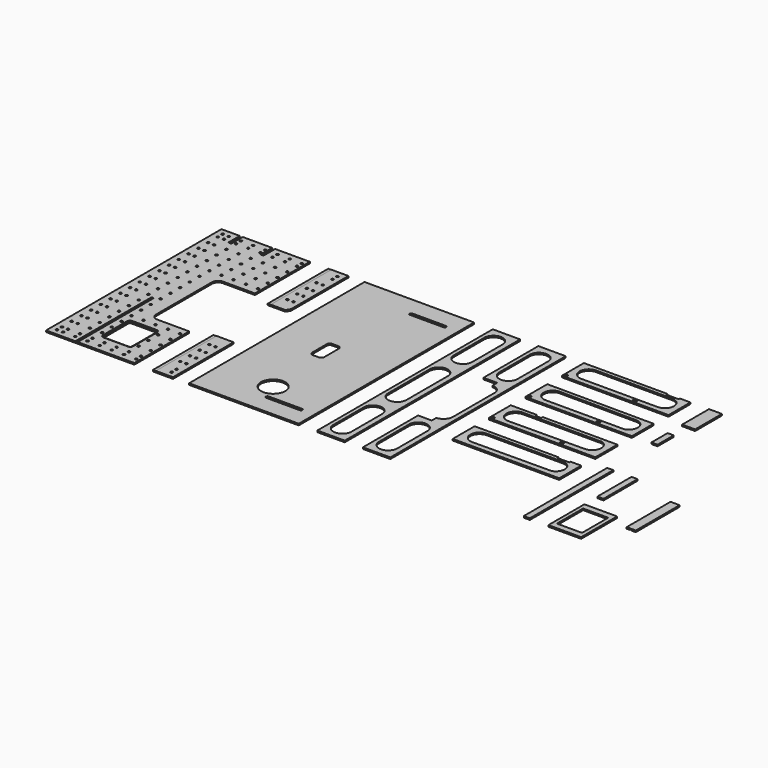
from build123d import *

# Parameters (mm, degrees)
F0_R      = 9.525
F0_W      = 914.4
F0_H      = 1828.8
F0_R_2    = 101.6
F0_W_2    = 228.6
F0_R_3    = 15.875
F0_W_3    = 168.275
F0_H_2    = 631.825
F0_W_4    = 107.95
F0_H_3    = 279.4
F0_W_5    = 50.8
F0_H_4    = 168.275
F0_H_5    = 869.95
F0_H_6    = 355.6
F0_W_6    = 273.05
F0_H_7    = 374.65
F0_W_7    = 76.2
F0_H_8    = 457.2
F1_DEPTH  = 12.7
F2_W      = 25.4
F2_H      = 120.355077
F2_W_2    = 19.05
F2_H_2    = 793.5853
F3_DEPTH  = 9.525
F5_DEPTH  = 6.35
F7_DEPTH  = 6.351
F8_W      = 25.4
F8_H      = 631.825
F9_DEPTH  = 1.5875
F10_W     = 15.875
F10_H     = 457.2
F11_DEPTH = 6.35
F12_W     = 209.55
F12_H     = 273.05
F13_DEPTH = 12.701


with BuildPart() as f1:
    # F0 (on Top) → F1 (new body)
    with BuildSketch(Plane.XY):
        with BuildLine():
            Line((824.992034, -725.172062), (824.992034, -153.672062))
            Line((824.992034, -153.672062), (88.392034, -153.672062))
            Line((88.392034, -153.672062), (88.392034, -1982.472062))
            Line((88.392034, -1982.472062), (824.992034, -1982.472062))
            Line((824.992034, -1982.472062), (824.992034, -1410.972062))
            Line((824.992034, -1410.972062), (558.292034, -1410.972062))
            ThreePointArc((558.292034, -1410.972062), (522.37101, -1396.093087), (507.492034, -1360.172062))
            Line((507.492034, -1360.172062), (507.492034, -775.972062))
            ThreePointArc((507.492034, -775.972062), (522.37101, -740.051038), (558.292034, -725.172062))
            Line((558.292034, -725.172062), (824.992034, -725.172062))
        make_face()
        with Locations((139.192034, -1931.672062)):
            Circle(F0_R, mode=Mode.SUBTRACT)
        with Locations((189.992034, -1931.672062)):
            Circle(F0_R, mode=Mode.SUBTRACT)
        with Locations((291.592034, -1931.672062)):
            Circle(F0_R, mode=Mode.SUBTRACT)
        with Locations((139.192034, -1880.872062)):
            Circle(F0_R, mode=Mode.SUBTRACT)
        with Locations((189.992034, -1880.872062)):
            Circle(F0_R, mode=Mode.SUBTRACT)
        with Locations((291.592034, -1880.872062)):
            Circle(F0_R, mode=Mode.SUBTRACT)
        with Locations((393.192034, -1931.672062)):
            Circle(F0_R, mode=Mode.SUBTRACT)
        with Locations((494.792034, -1931.672062)):
            Circle(F0_R, mode=Mode.SUBTRACT)
        with Locations((596.392034, -1931.672062)):
            Circle(F0_R, mode=Mode.SUBTRACT)
        with Locations((393.192034, -1880.872062)):
            Circle(F0_R, mode=Mode.SUBTRACT)
        with Locations((494.792034, -1880.872062)):
            Circle(F0_R, mode=Mode.SUBTRACT)
        with Locations((596.392034, -1880.872062)):
            Circle(F0_R, mode=Mode.SUBTRACT)
        with Locations((697.992034, -1931.672062)):
            Circle(F0_R, mode=Mode.SUBTRACT)
        with Locations((799.592034, -1931.672062)):
            Circle(F0_R, mode=Mode.SUBTRACT)
        with Locations((697.992034, -1880.872062)):
            Circle(F0_R, mode=Mode.SUBTRACT)
        with Locations((799.592034, -1880.872062)):
            Circle(F0_R, mode=Mode.SUBTRACT)
        with Locations((139.192034, -1779.272062)):
            Circle(F0_R, mode=Mode.SUBTRACT)
        with Locations((189.992034, -1779.272062)):
            Circle(F0_R, mode=Mode.SUBTRACT)
        with Locations((291.592034, -1779.272062)):
            Circle(F0_R, mode=Mode.SUBTRACT)
        with Locations((393.192034, -1779.272062)):
            Circle(F0_R, mode=Mode.SUBTRACT)
        with Locations((139.192034, -1677.672062)):
            Circle(F0_R, mode=Mode.SUBTRACT)
        with Locations((189.992034, -1677.672062)):
            Circle(F0_R, mode=Mode.SUBTRACT)
        with Locations((291.592034, -1677.672062)):
            Circle(F0_R, mode=Mode.SUBTRACT)
        with Locations((393.192034, -1677.672062)):
            Circle(F0_R, mode=Mode.SUBTRACT)
        with Locations((697.992034, -1779.272062)):
            Circle(F0_R, mode=Mode.SUBTRACT)
        with Locations((799.592034, -1779.272062)):
            Circle(F0_R, mode=Mode.SUBTRACT)
        with Locations((697.992034, -1677.672062)):
            Circle(F0_R, mode=Mode.SUBTRACT)
        with Locations((799.592034, -1677.672062)):
            Circle(F0_R, mode=Mode.SUBTRACT)
        with Locations((139.192034, -1576.072062)):
            Circle(F0_R, mode=Mode.SUBTRACT)
        with Locations((189.992034, -1576.072062)):
            Circle(F0_R, mode=Mode.SUBTRACT)
        with Locations((291.592034, -1576.072062)):
            Circle(F0_R, mode=Mode.SUBTRACT)
        with Locations((393.192034, -1576.072062)):
            Circle(F0_R, mode=Mode.SUBTRACT)
        with Locations((139.192034, -1474.472062)):
            Circle(F0_R, mode=Mode.SUBTRACT)
        with Locations((189.992034, -1474.472062)):
            Circle(F0_R, mode=Mode.SUBTRACT)
        with Locations((291.592034, -1474.472062)):
            Circle(F0_R, mode=Mode.SUBTRACT)
        with Locations((139.192034, -1372.872062)):
            Circle(F0_R, mode=Mode.SUBTRACT)
        with Locations((189.992034, -1372.872062)):
            Circle(F0_R, mode=Mode.SUBTRACT)
        with Locations((291.592034, -1372.872062)):
            Circle(F0_R, mode=Mode.SUBTRACT)
        with Locations((393.192034, -1474.472062)):
            Circle(F0_R, mode=Mode.SUBTRACT)
        with Locations((494.792034, -1474.472062)):
            Circle(F0_R, mode=Mode.SUBTRACT)
        with Locations((596.392034, -1474.472062)):
            Circle(F0_R, mode=Mode.SUBTRACT)
        with Locations((393.192034, -1372.872062)):
            Circle(F0_R, mode=Mode.SUBTRACT)
        with Locations((697.992034, -1576.072062)):
            Circle(F0_R, mode=Mode.SUBTRACT)
        with Locations((799.592034, -1576.072062)):
            Circle(F0_R, mode=Mode.SUBTRACT)
        with Locations((697.992034, -1474.472062)):
            Circle(F0_R, mode=Mode.SUBTRACT)
        with Locations((799.592034, -1474.472062)):
            Circle(F0_R, mode=Mode.SUBTRACT)
        with Locations((139.192034, -1271.272062)):
            Circle(F0_R, mode=Mode.SUBTRACT)
        with Locations((189.992034, -1271.272062)):
            Circle(F0_R, mode=Mode.SUBTRACT)
        with Locations((291.592034, -1271.272062)):
            Circle(F0_R, mode=Mode.SUBTRACT)
        with Locations((393.192034, -1271.272062)):
            Circle(F0_R, mode=Mode.SUBTRACT)
        with Locations((139.192034, -1169.672062)):
            Circle(F0_R, mode=Mode.SUBTRACT)
        with Locations((189.992034, -1169.672062)):
            Circle(F0_R, mode=Mode.SUBTRACT)
        with Locations((291.592034, -1169.672062)):
            Circle(F0_R, mode=Mode.SUBTRACT)
        with Locations((393.192034, -1169.672062)):
            Circle(F0_R, mode=Mode.SUBTRACT)
        with Locations((139.192034, -1068.072062)):
            Circle(F0_R, mode=Mode.SUBTRACT)
        with Locations((189.992034, -1068.072062)):
            Circle(F0_R, mode=Mode.SUBTRACT)
        with Locations((291.592034, -1068.072062)):
            Circle(F0_R, mode=Mode.SUBTRACT)
        with Locations((393.192034, -1068.072062)):
            Circle(F0_R, mode=Mode.SUBTRACT)
        with Locations((139.192034, -966.472062)):
            Circle(F0_R, mode=Mode.SUBTRACT)
        with Locations((189.992034, -966.472062)):
            Circle(F0_R, mode=Mode.SUBTRACT)
        with Locations((291.592034, -966.472062)):
            Circle(F0_R, mode=Mode.SUBTRACT)
        with Locations((393.192034, -966.472062)):
            Circle(F0_R, mode=Mode.SUBTRACT)
        with Locations((139.192034, -864.872062)):
            Circle(F0_R, mode=Mode.SUBTRACT)
        with Locations((189.992034, -864.872062)):
            Circle(F0_R, mode=Mode.SUBTRACT)
        with Locations((291.592034, -864.872062)):
            Circle(F0_R, mode=Mode.SUBTRACT)
        with Locations((139.192034, -763.272062)):
            Circle(F0_R, mode=Mode.SUBTRACT)
        with Locations((189.992034, -763.272062)):
            Circle(F0_R, mode=Mode.SUBTRACT)
        with Locations((291.592034, -763.272062)):
            Circle(F0_R, mode=Mode.SUBTRACT)
        with Locations((393.192034, -864.872062)):
            Circle(F0_R, mode=Mode.SUBTRACT)
        with Locations((393.192034, -763.272062)):
            Circle(F0_R, mode=Mode.SUBTRACT)
        with Locations((139.192034, -661.672062)):
            Circle(F0_R, mode=Mode.SUBTRACT)
        with Locations((189.992034, -661.672062)):
            Circle(F0_R, mode=Mode.SUBTRACT)
        with Locations((291.592034, -661.672062)):
            Circle(F0_R, mode=Mode.SUBTRACT)
        with Locations((393.192034, -661.672062)):
            Circle(F0_R, mode=Mode.SUBTRACT)
        with Locations((494.792034, -661.672062)):
            Circle(F0_R, mode=Mode.SUBTRACT)
        with Locations((596.392034, -661.672062)):
            Circle(F0_R, mode=Mode.SUBTRACT)
        with Locations((697.992034, -661.672062)):
            Circle(F0_R, mode=Mode.SUBTRACT)
        with Locations((799.852533, -661.672062)):
            Circle(F0_R, mode=Mode.SUBTRACT)
        with Locations((139.192034, -560.072062)):
            Circle(F0_R, mode=Mode.SUBTRACT)
        with Locations((189.992034, -560.072062)):
            Circle(F0_R, mode=Mode.SUBTRACT)
        with Locations((291.592034, -560.072062)):
            Circle(F0_R, mode=Mode.SUBTRACT)
        with Locations((393.192034, -560.072062)):
            Circle(F0_R, mode=Mode.SUBTRACT)
        with Locations((494.792034, -560.072062)):
            Circle(F0_R, mode=Mode.SUBTRACT)
        with Locations((596.392034, -560.072062)):
            Circle(F0_R, mode=Mode.SUBTRACT)
        with Locations((139.192034, -458.472062)):
            Circle(F0_R, mode=Mode.SUBTRACT)
        with Locations((189.992034, -458.472062)):
            Circle(F0_R, mode=Mode.SUBTRACT)
        with Locations((291.592034, -458.472062)):
            Circle(F0_R, mode=Mode.SUBTRACT)
        with Locations((393.192034, -458.472062)):
            Circle(F0_R, mode=Mode.SUBTRACT)
        with Locations((494.792034, -458.472062)):
            Circle(F0_R, mode=Mode.SUBTRACT)
        with Locations((596.392034, -458.472062)):
            Circle(F0_R, mode=Mode.SUBTRACT)
        with Locations((697.992034, -560.072062)):
            Circle(F0_R, mode=Mode.SUBTRACT)
        with Locations((799.592034, -560.072062)):
            Circle(F0_R, mode=Mode.SUBTRACT)
        with Locations((697.992034, -458.472062)):
            Circle(F0_R, mode=Mode.SUBTRACT)
        with Locations((799.592034, -458.472062)):
            Circle(F0_R, mode=Mode.SUBTRACT)
        with Locations((139.192034, -356.872062)):
            Circle(F0_R, mode=Mode.SUBTRACT)
        with Locations((189.992034, -356.872062)):
            Circle(F0_R, mode=Mode.SUBTRACT)
        with Locations((291.592034, -356.872062)):
            Circle(F0_R, mode=Mode.SUBTRACT)
        with Locations((393.192034, -356.872062)):
            Circle(F0_R, mode=Mode.SUBTRACT)
        with Locations((494.792034, -356.872062)):
            Circle(F0_R, mode=Mode.SUBTRACT)
        with Locations((596.392034, -356.872062)):
            Circle(F0_R, mode=Mode.SUBTRACT)
        with Locations((139.192034, -255.272062)):
            Circle(F0_R, mode=Mode.SUBTRACT)
        with Locations((189.992034, -255.272062)):
            Circle(F0_R, mode=Mode.SUBTRACT)
        with Locations((291.592034, -255.272062)):
            Circle(F0_R, mode=Mode.SUBTRACT)
        with Locations((139.192034, -204.472062)):
            Circle(F0_R, mode=Mode.SUBTRACT)
        with Locations((189.992034, -204.472062)):
            Circle(F0_R, mode=Mode.SUBTRACT)
        with Locations((291.592034, -204.472062)):
            Circle(F0_R, mode=Mode.SUBTRACT)
        with Locations((393.192034, -255.272062)):
            Circle(F0_R, mode=Mode.SUBTRACT)
        with Locations((494.792034, -255.272062)):
            Circle(F0_R, mode=Mode.SUBTRACT)
        with Locations((596.392034, -255.272062)):
            Circle(F0_R, mode=Mode.SUBTRACT)
        with Locations((393.192034, -204.472062)):
            Circle(F0_R, mode=Mode.SUBTRACT)
        with Locations((494.792034, -204.472062)):
            Circle(F0_R, mode=Mode.SUBTRACT)
        with Locations((596.392034, -204.472062)):
            Circle(F0_R, mode=Mode.SUBTRACT)
        with Locations((697.992034, -356.872062)):
            Circle(F0_R, mode=Mode.SUBTRACT)
        with Locations((799.592034, -356.872062)):
            Circle(F0_R, mode=Mode.SUBTRACT)
        with Locations((697.992034, -255.272062)):
            Circle(F0_R, mode=Mode.SUBTRACT)
        with Locations((799.592034, -255.272062)):
            Circle(F0_R, mode=Mode.SUBTRACT)
        with Locations((697.992034, -204.472062)):
            Circle(F0_R, mode=Mode.SUBTRACT)
        with Locations((799.592034, -204.472062)):
            Circle(F0_R, mode=Mode.SUBTRACT)
        with Locations((1738.924572, -1068.072062)):
            Rectangle(F0_W, F0_H)
        with Locations((1738.924572, -1677.672062)):
            Circle(F0_R_2, mode=Mode.SUBTRACT)
        with BuildLine():
            Line((2081.824572, -1830.072062), (1802.424572, -1830.072062))
            ThreePointArc((1802.424572, -1830.072062), (1789.724572, -1817.372062), (1802.424572, -1804.672062))
            Line((1802.424572, -1804.672062), (2081.824572, -1804.672062))
            ThreePointArc((2081.824572, -1804.672062), (2094.524572, -1817.372062), (2081.824572, -1830.072062))
        make_face(mode=Mode.SUBTRACT)
        with BuildLine():
            ThreePointArc((1637.324572, -991.872062), (1644.76406, -973.91155), (1662.724572, -966.472062))
            Line((1662.724572, -966.472062), (1713.524572, -966.472062))
            ThreePointArc((1713.524572, -966.472062), (1731.485084, -973.91155), (1738.924572, -991.872062))
            Line((1738.924572, -991.872062), (1738.924572, -1144.272062))
            ThreePointArc((1738.924572, -1144.272062), (1731.485084, -1162.232574), (1713.524572, -1169.672062))
            Line((1713.524572, -1169.672062), (1662.724572, -1169.672062))
            ThreePointArc((1662.724572, -1169.672062), (1644.76406, -1162.232574), (1637.324572, -1144.272062))
            Line((1637.324572, -1144.272062), (1637.324572, -991.872062))
        make_face(mode=Mode.SUBTRACT)
        with BuildLine():
            ThreePointArc((1802.424572, -331.472062), (1789.724572, -318.772062), (1802.424572, -306.072062))
            Line((1802.424572, -306.072062), (2081.824572, -306.072062))
            ThreePointArc((2081.824572, -306.072062), (2094.524572, -318.772062), (2081.824572, -331.472062))
            Line((2081.824572, -331.472062), (1802.424572, -331.472062))
        make_face(mode=Mode.SUBTRACT)
        with Locations((2464.81322, -1067.172032)):
            Rectangle(F0_W_2, F0_H)
        with BuildLine():
            Line((2534.66322, -1537.072032), (2534.66322, -1854.572032))
            ThreePointArc((2534.66322, -1854.572032), (2458.46322, -1930.772032), (2382.26322, -1854.572032))
            ThreePointArc((2382.26322, -1854.572032), (2382.26323, -1854.531859), (2382.263262, -1854.491687))
            Line((2382.263262, -1854.491687), (2382.427966, -1542.080036))
            ThreePointArc((2382.427966, -1542.080036), (2382.26323, -1537.031859), (2382.433288, -1531.983859))
            ThreePointArc((2382.433288, -1531.983859), (2461.008727, -1460.914561), (2534.66322, -1537.072032))
        make_face(mode=Mode.SUBTRACT)
        with BuildLine():
            ThreePointArc((2382.26322, -851.272032), (2458.46322, -775.072032), (2534.66322, -851.272032))
            Line((2534.66322, -851.272032), (2534.66322, -1283.072032))
            ThreePointArc((2534.66322, -1283.072032), (2458.46322, -1359.272032), (2382.26322, -1283.072032))
            Line((2382.26322, -1283.072032), (2382.26322, -851.272032))
        make_face(mode=Mode.SUBTRACT)
        with BuildLine():
            ThreePointArc((2382.26322, -279.772032), (2458.46322, -203.572032), (2534.66322, -279.772032))
            Line((2534.66322, -279.772032), (2534.66322, -597.272032))
            ThreePointArc((2534.66322, -597.272032), (2461.008727, -673.429503), (2382.433288, -602.360205))
            ThreePointArc((2382.433288, -602.360205), (2382.26323, -597.312205), (2382.427966, -592.264028))
            Line((2382.427966, -592.264028), (2382.263262, -279.852377))
            ThreePointArc((2382.263262, -279.852377), (2382.26323, -279.812205), (2382.26322, -279.772032))
        make_face(mode=Mode.SUBTRACT)
        with BuildLine():
            Line((2959.052776, -152.000085), (2730.452776, -152.000085))
            Line((2730.452776, -152.000085), (2730.452776, -724.537076))
            Line((2730.452776, -724.537076), (2844.752776, -724.537076))
            Line((2844.752776, -724.537076), (2844.752776, -775.337076))
            ThreePointArc((2844.752776, -775.337076), (2899.744687, -795.910954), (2920.415651, -850.866444))
            Line((2920.415651, -850.866444), (2920.415651, -1282.666444))
            ThreePointArc((2920.415651, -1282.666444), (2896.997762, -1335.122317), (2844.752776, -1359.006988))
            Line((2844.752776, -1359.006988), (2844.752776, -1405.906244))
            Line((2844.752776, -1405.906244), (2730.452776, -1405.906244))
            Line((2730.452776, -1405.906244), (2730.452776, -1980.800085))
            Line((2730.452776, -1980.800085), (2959.052776, -1980.800085))
            Line((2959.052776, -1980.800085), (2959.052776, -152.000085))
        make_face()
        with BuildLine():
            ThreePointArc((2763.049319, -1546.760048), (2839.008496, -1464.038196), (2914.883416, -1546.837337))
            Line((2914.883416, -1546.837337), (2915.044655, -1852.676943))
            ThreePointArc((2915.044655, -1852.676943), (2840.3611, -1929.988724), (2763.049319, -1855.305169))
            Line((2763.049319, -1855.305169), (2763.049319, -1546.760048))
        make_face(mode=Mode.SUBTRACT)
        with BuildLine():
            Line((2763.049319, -605.458626), (2763.049319, -274.586502))
            ThreePointArc((2763.049319, -274.586502), (2839.217093, -205.866275), (2915.374212, -274.59831))
            Line((2915.374212, -274.59831), (2915.202928, -599.491614))
            ThreePointArc((2915.202928, -599.491614), (2841.989125, -675.479169), (2763.049319, -605.458626))
        make_face(mode=Mode.SUBTRACT)
        Polygon((3810.398899, -153.963263), (3111.898899, -153.963263), (3111.898899, -382.563263), (4000.898899, -382.563263), (4000.898899, -153.963263), (3911.998899, -153.963263), (3911.998899, -166.663263), (3810.398899, -166.663263), align=None)
        with Locations((3129.361399, -365.100763)):
            Circle(F0_R_3, mode=Mode.SUBTRACT)
        with BuildLine():
            ThreePointArc((3238.898899, -338.113263), (3162.698899, -261.913263), (3238.898899, -185.713263))
            Line((3238.898899, -185.713263), (3873.898899, -185.713263))
            ThreePointArc((3873.898899, -185.713263), (3950.098899, -261.913263), (3873.898899, -338.113263))
            Line((3873.898899, -338.113263), (3238.898899, -338.113263))
        make_face(mode=Mode.SUBTRACT)
        with Locations((3704.036399, -365.100763)):
            Circle(F0_R_3, mode=Mode.SUBTRACT)
        Polygon((4000.862684, -538.837715), (3111.86862, -535.589039), (3111.86862, -764.189039), (4000.668441, -764.189039), align=None)
        with Locations((3129.361399, -744.909551)):
            Circle(F0_R_3, mode=Mode.SUBTRACT)
        with BuildLine():
            ThreePointArc((3243.979126, -718.859002), (3168.10773, -649.728039), (3229.902022, -567.770584))
            Line((3229.902022, -567.770584), (3865.153659, -570.092002))
            ThreePointArc((3865.153659, -570.092002), (3952.615817, -626.585611), (3904.379126, -718.859002))
            Line((3904.379126, -718.859002), (3243.979126, -718.859002))
        make_face(mode=Mode.SUBTRACT)
        with Locations((3704.043551, -744.909551)):
            Circle(F0_R_3, mode=Mode.SUBTRACT)
        Polygon((3327.751692, -916.471149), (3111.851692, -916.471149), (3111.851692, -1145.071149), (4000.651514, -1145.071149), (4000.851692, -916.471149), (3378.551692, -916.471149), (3378.551692, -932.317421), (3327.751692, -932.317421), align=None)
        with Locations((3129.361399, -1128.44939)):
            Circle(F0_R_3, mode=Mode.SUBTRACT)
        with Locations((3704.036399, -1125.582231)):
            Circle(F0_R_3, mode=Mode.SUBTRACT)
        with BuildLine():
            ThreePointArc((3238.851692, -1100.621149), (3162.651692, -1024.421149), (3238.851692, -948.221149))
            Line((3238.851692, -948.221149), (3899.251692, -948.221149))
            ThreePointArc((3899.251692, -948.221149), (3948.937967, -1032.951303), (3873.836701, -1096.257896))
            Line((3873.836701, -1096.257896), (3238.851692, -1100.621149))
        make_face(mode=Mode.SUBTRACT)
        Polygon((3811.468538, -1294.676329), (3113.168716, -1294.676329), (3113.168716, -1523.276329), (4001.968538, -1523.276329), (4001.968538, -1294.676329), (3913.068538, -1294.676329), (3913.068538, -1307.376329), (3811.468538, -1307.376329), align=None)
        with BuildLine():
            ThreePointArc((3240.168716, -1478.826329), (3163.968716, -1402.626329), (3240.168716, -1326.426329))
            Line((3240.168716, -1326.426329), (3875.168716, -1326.426329))
            ThreePointArc((3875.168716, -1326.426329), (3950.269982, -1389.732923), (3900.583707, -1474.463076))
            Line((3900.583707, -1474.463076), (3240.168716, -1478.826329))
        make_face(mode=Mode.SUBTRACT)
        Polygon((1146.73251, -152.844533), (978.45751, -152.844533), (978.45751, -784.669533), (1127.294421, -784.669533), (1146.73251, -750.175357), align=None)
        with Locations((1045.13251, -661.672062)):
            Circle(F0_R, mode=Mode.SUBTRACT)
        with Locations((1095.93251, -661.672062)):
            Circle(F0_R, mode=Mode.SUBTRACT)
        with Locations((1045.13251, -560.072062)):
            Circle(F0_R, mode=Mode.SUBTRACT)
        with Locations((1095.93251, -560.072062)):
            Circle(F0_R, mode=Mode.SUBTRACT)
        with Locations((1045.13251, -458.472062)):
            Circle(F0_R, mode=Mode.SUBTRACT)
        with Locations((1095.93251, -458.472062)):
            Circle(F0_R, mode=Mode.SUBTRACT)
        with Locations((1045.13251, -356.872062)):
            Circle(F0_R, mode=Mode.SUBTRACT)
        with Locations((1095.93251, -356.872062)):
            Circle(F0_R, mode=Mode.SUBTRACT)
        with Locations((1095.93251, -255.272062)):
            Circle(F0_R, mode=Mode.SUBTRACT)
        with Locations((1095.93251, -204.472062)):
            Circle(F0_R, mode=Mode.SUBTRACT)
        with Locations((1062.59501, -1666.045889)):
            Rectangle(F0_W_3, F0_H_2)
        with Locations((1095.470905, -1931.672062)):
            Circle(F0_R, mode=Mode.SUBTRACT)
        with Locations((1095.470905, -1880.872062)):
            Circle(F0_R, mode=Mode.SUBTRACT)
        with Locations((1044.670905, -1779.272062)):
            Circle(F0_R, mode=Mode.SUBTRACT)
        with Locations((1095.470905, -1779.272062)):
            Circle(F0_R, mode=Mode.SUBTRACT)
        with Locations((1044.670905, -1677.672062)):
            Circle(F0_R, mode=Mode.SUBTRACT)
        with Locations((1095.470905, -1677.672062)):
            Circle(F0_R, mode=Mode.SUBTRACT)
        with Locations((1044.670905, -1576.072062)):
            Circle(F0_R, mode=Mode.SUBTRACT)
        with Locations((1095.470905, -1576.072062)):
            Circle(F0_R, mode=Mode.SUBTRACT)
        with Locations((1044.670905, -1474.472062)):
            Circle(F0_R, mode=Mode.SUBTRACT)
        with Locations((1095.470905, -1474.472062)):
            Circle(F0_R, mode=Mode.SUBTRACT)
        with Locations((4208.187475, -292.065258)):
            Rectangle(F0_W_4, F0_H_3)
        with Locations((4180.513697, -668.810903)):
            Rectangle(F0_W_5, F0_H_4)
        with Locations((4179.66302, -1648.820309)):
            Rectangle(F0_W_5, F0_H_5)
        with Locations((4382.443743, -1391.329705)):
            Rectangle(F0_W_5, F0_H_6)
        with Locations((4495.83515, -1895.594238)):
            Rectangle(F0_W_6, F0_H_7)
        with Locations((4813.39192, -1558.45132)):
            Rectangle(F0_W_7, F0_H_8)
    extrude(amount=F1_DEPTH)

    # F2 (on face) → F3 (cut)
    with BuildSketch(Plane.XY.offset(12.7)):
        with Locations((253.492034, -213.8496)):
            Rectangle(F2_W, F2_H)
        with Locations((523.367034, -213.8496)):
            Rectangle(F2_W, F2_H)
        with Locations((342.392034, -1585.679412)):
            Rectangle(F2_W_2, F2_H_2)
    extrude(amount=-F3_DEPTH, mode=Mode.SUBTRACT)

    # F4 (on face) → F5 (cut)
    with BuildSketch(Plane.XY.offset(12.7)):
        with BuildLine():
            Line((646.398284, -1527.653312), (444.785784, -1527.653312))
            ThreePointArc((444.785784, -1527.653312), (426.825272, -1535.0928), (419.385784, -1553.053312))
            Line((419.385784, -1553.053312), (419.385784, -1802.290812))
            ThreePointArc((419.385784, -1802.290812), (426.825272, -1820.251324), (444.785784, -1827.690812))
            Line((444.785784, -1827.690812), (646.398284, -1827.690812))
            ThreePointArc((646.398284, -1827.690812), (664.358796, -1820.251324), (671.798284, -1802.290812))
            Line((671.798284, -1802.290812), (671.798284, -1553.053312))
            ThreePointArc((671.798284, -1553.053312), (664.358796, -1535.0928), (646.398284, -1527.653312))
        make_face()
    extrude(amount=-F5_DEPTH, mode=Mode.SUBTRACT)

    # F6 (on face) → F7 (cut, through all)
    with BuildSketch(Plane.XY.offset(6.35)):
        with BuildLine():
            ThreePointArc((444.785784, -1540.353312), (435.805528, -1544.073056), (432.085784, -1553.053312))
            Line((432.085784, -1553.053312), (432.085784, -1802.290812))
            ThreePointArc((432.085784, -1802.290812), (435.805528, -1811.271068), (444.785784, -1814.990812))
            Line((444.785784, -1814.990812), (646.398284, -1814.990812))
            ThreePointArc((646.398284, -1814.990812), (655.37854, -1811.271068), (659.098284, -1802.290812))
            Line((659.098284, -1802.290812), (659.098284, -1553.053312))
            ThreePointArc((659.098284, -1553.053312), (655.37854, -1544.073056), (646.398284, -1540.353312))
            Line((646.398284, -1540.353312), (444.785784, -1540.353312))
        make_face()
    extrude(amount=-F7_DEPTH, mode=Mode.SUBTRACT)

    # F8 (on face) → F9 (cut)
    with BuildSketch(Plane.XY.offset(12.7)):
        with Locations((991.15751, -468.757033)):
            Rectangle(F8_W, F8_H)
        with Locations((991.15751, -1666.045889)):
            Rectangle(F8_W, F8_H)
    extrude(amount=-F9_DEPTH, mode=Mode.SUBTRACT)

    # F10 (on face) → F11 (cut)
    with BuildSketch(Plane(origin=(0, 0, 0), x_dir=(1, 0, 0), z_dir=(0, 0, -1))):
        with Locations((4805.45442, 1558.45132)):
            Rectangle(F10_W, F10_H)
    extrude(amount=-F11_DEPTH, mode=Mode.SUBTRACT)

    # F12 (on face) → F13 (cut, through all)
    with BuildSketch(Plane.XY.offset(12.7)):
        with Locations((4494.24765, -1895.594238)):
            Rectangle(F12_W, F12_H)
    extrude(amount=-F13_DEPTH, mode=Mode.SUBTRACT)


solid = f1.part
